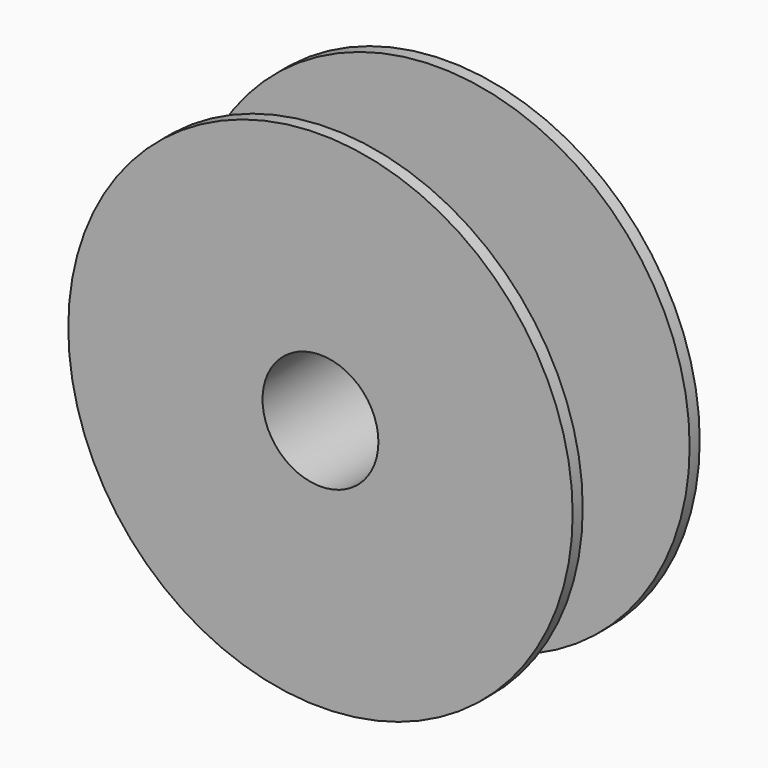
from build123d import *

# Parameters (mm, degrees)
F0_R     = 99.21875
F1_DEPTH = 4.953
F4_R     = 31.75
F5_DEPTH = 62.23
F3_R     = 99.21875
F6_DEPTH = 4.953
F7_R     = 22.792955
F8_DEPTH = 62.485


with BuildPart() as f1:
    # F0 (on Front) → F1 (new body)
    with BuildSketch(Plane.XZ):
        Circle(F0_R)
    extrude(amount=-F1_DEPTH)

    # F4 (on face) → F5 (join)
    with BuildSketch(Plane.XZ):
        Circle(F4_R)
    extrude(amount=-F5_DEPTH)

    # F3 (on offset) → F6 (join)
    with BuildSketch(Plane.XZ.offset(-62.484)):
        Circle(F3_R)
    extrude(amount=F6_DEPTH)

    # F7 (on face) → F8 (cut, through all)
    with BuildSketch(Plane.XZ):
        Circle(F7_R)
    extrude(amount=-F8_DEPTH, mode=Mode.SUBTRACT)


solid = f1.part
